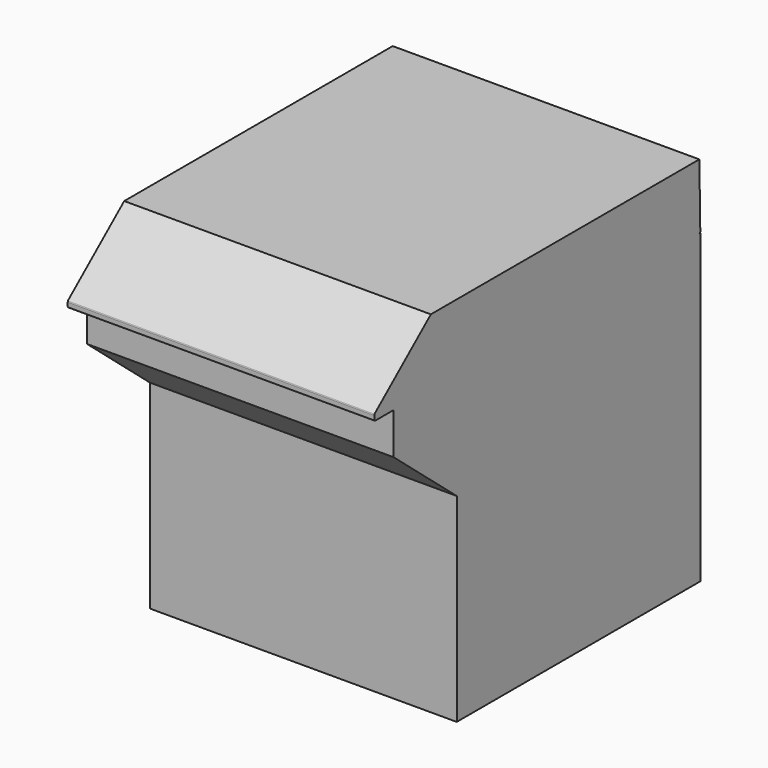
from build123d import *

# Parameters (mm, degrees)
F1_DEPTH = 25.4
F2_DEPTH = 25.4
F3_DEPTH = 25.4


with BuildPart() as f1:
    # F0 (on Right) → F1 (new body)
    with BuildSketch(Plane.YZ):
        Polygon((-16.583575, 9.432823), (-16.488011, 9.432823), (17.062246, 9.432823), (17.15781, 9.432823), (17.062246, 14.338518), (-10.737195, 14.338518), align=None)
    extrude(amount=F1_DEPTH)

    # F0 (on Right) → F2 (join)
    with BuildSketch(Plane.YZ):
        with BuildLine():
            Line((-16.488011, 8.924823), (-14.59219, 8.924823))
            Line((-14.59219, 8.924823), (17.062246, 8.924823))
            ThreePointArc((17.062246, 8.924823), (17.12982, 8.952814), (17.15781, 9.020388))
            Line((17.15781, 9.020388), (17.15781, 9.337259))
            ThreePointArc((17.15781, 9.337259), (17.12982, 9.404833), (17.062246, 9.432823))
            Line((17.062246, 9.432823), (-16.488011, 9.432823))
            ThreePointArc((-16.488011, 9.432823), (-16.555585, 9.404833), (-16.583575, 9.337259))
            Line((-16.583575, 9.337259), (-16.583575, 9.020388))
            ThreePointArc((-16.583575, 9.020388), (-16.555585, 8.952814), (-16.488011, 8.924823))
        make_face()
    extrude(amount=F2_DEPTH)

    # F0 (on Right) → F3 (join)
    with BuildSketch(Plane.YZ):
        Polygon((17.062246, 8.924823), (-14.59219, 8.924823), (-14.59219, 5.485807), (-8.05446, 0), (-8.05446, -16.475177), (17.15781, -16.475177), (17.15781, 8.924823), align=None)
    extrude(amount=F3_DEPTH)


solid = f1.part
